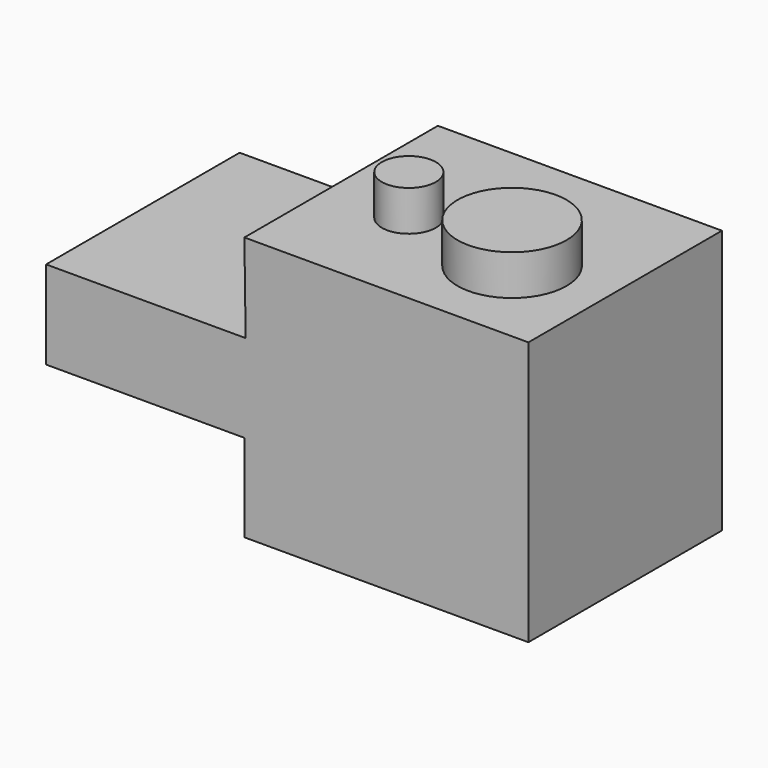
from build123d import *

# Parameters (mm, degrees)
F1_DEPTH = 76.2
F2_R     = 17.175064
F2_R_2   = 8.513292
F3_DEPTH = 12.7


with BuildPart() as f1:
    # F0 (on Front) → F1 (new body)
    with BuildSketch(Plane.XZ):
        Polygon((-18.524483, 11.430001), (-81.389479, 11.430001), (-81.389479, -16.356725), (-18.918622, -16.356725), (-18.918622, -43.946382), (70.550688, -43.946382), (70.550688, 39.216723), (-18.918622, 39.216723), align=None)
    extrude(amount=F1_DEPTH)

    # F2 (on face) → F3 (join)
    with BuildSketch(Plane.XY.offset(39.216723)):
        with Locations((41.936964, -46.870772)):
            Circle(F2_R)
        with Locations((6.131807, -42.753547)):
            Circle(F2_R_2)
    extrude(amount=F3_DEPTH)


solid = f1.part
